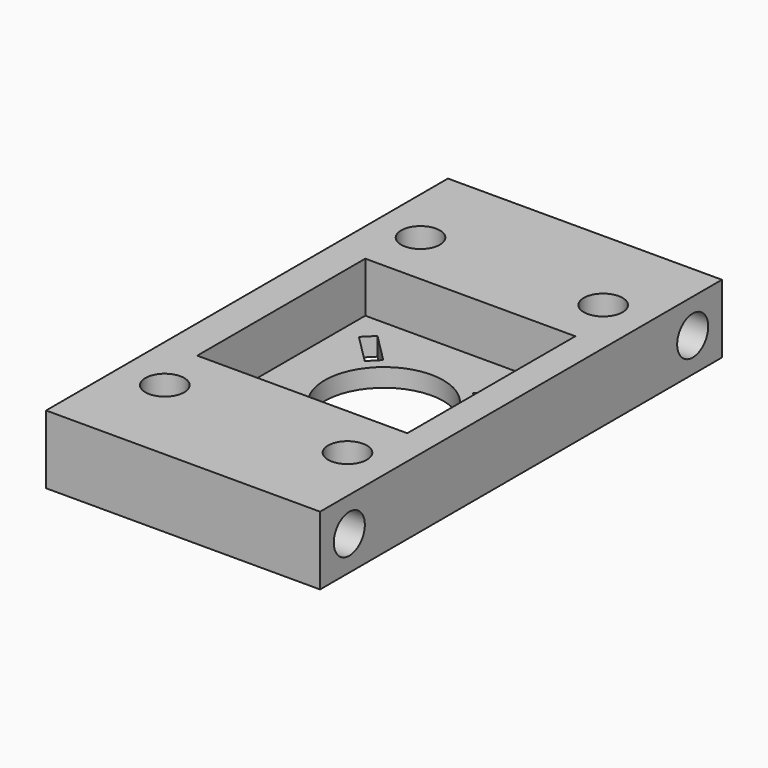
from build123d import *

# Parameters (mm, degrees)
BOX_W                   = 46
BOX_H                   = 46
BOX_DEPTH               = 20
CYLINDER001_R           = 4.25
CYLINDER001_DEPTH       = 76
CYLINDER001_PITCH_ANGLE = 90
CYLINDER_R              = 4.25
CYLINDER_DEPTH          = 76
CYLINDER_PITCH_ANGLE    = 90
SKETCH_W                = 60
SKETCH_H                = 110
SKETCH_R                = 4.25
SKETCH_R_2              = 13
PAD_DEPTH               = 15


with BuildPart() as cubo:
    # Box → Box (new body)
    with BuildSketch(Plane(origin=(7.5, 32, 4), x_dir=(1, 0, 0), z_dir=(0, 0, 1))):
        with Locations((23, 23)):
            Rectangle(BOX_W, BOX_H)
    extrude(amount=BOX_DEPTH)


with BuildPart() as cilindro001:
    # Cylinder001 → Cylinder001 (new body)
    with BuildSketch(Plane.XY):
        Circle(CYLINDER001_R)
    extrude(amount=CYLINDER001_DEPTH)


with BuildPart() as cilindro001_1:
    # Cylinder001 pitch: moved
    add(cilindro001.part.rotate(Axis((0, 0, 0), (0, 1, 0)), CYLINDER001_PITCH_ANGLE))


with BuildPart() as cilindro001_2:
    # Cylinder001 placement: moved
    add(cilindro001_1.part.moved(Location((-1, 8, 7.5))))


with BuildPart() as cilindro:
    # Cylinder → Cylinder (new body)
    with BuildSketch(Plane.XY):
        Circle(CYLINDER_R)
    extrude(amount=CYLINDER_DEPTH)


with BuildPart() as cilindro_1:
    # Cylinder pitch: moved
    add(cilindro.part.rotate(Axis((0, 0, 0), (0, 1, 0)), CYLINDER_PITCH_ANGLE))


with BuildPart() as cilindro_2:
    # Cylinder placement: moved
    add(cilindro_1.part.moved(Location((-1, 102, 7.5))))


with BuildPart() as cut002:
    # Sketch → Pad (new body)
    with BuildSketch(Plane.XY):
        with Locations((30, 55)):
            Rectangle(SKETCH_W, SKETCH_H)
        with Locations((10, 20)):
            Circle(SKETCH_R, mode=Mode.SUBTRACT)
        with Locations((50, 20)):
            Circle(SKETCH_R, mode=Mode.SUBTRACT)
        with Locations((10, 90)):
            Circle(SKETCH_R, mode=Mode.SUBTRACT)
        with Locations((50, 90)):
            Circle(SKETCH_R, mode=Mode.SUBTRACT)
        with Locations((30, 55)):
            Circle(SKETCH_R_2, mode=Mode.SUBTRACT)
        Polygon((39.826039, 67.088781), (46.19, 73.452742), (48.452742, 71.19), (42.088781, 64.826039), align=None, mode=Mode.SUBTRACT)
        Polygon((39.826039, 42.911219), (42.088781, 45.173961), (48.452742, 38.81), (46.19, 36.547258), align=None, mode=Mode.SUBTRACT)
        Polygon((11.547258, 71.19), (13.81, 73.452742), (20.173961, 67.088781), (17.911219, 64.826039), align=None, mode=Mode.SUBTRACT)
        Polygon((11.547258, 38.81), (17.911219, 45.173961), (20.173961, 42.911219), (13.81, 36.547258), align=None, mode=Mode.SUBTRACT)
    extrude(amount=PAD_DEPTH)

    # Cut: cut Cilindro
    add(cilindro_2.part, mode=Mode.SUBTRACT)

    # Cut001: cut Cilindro001
    add(cilindro001_2.part, mode=Mode.SUBTRACT)

    # Cut002: cut Cubo
    add(cubo.part, mode=Mode.SUBTRACT)


solid = cut002.part
